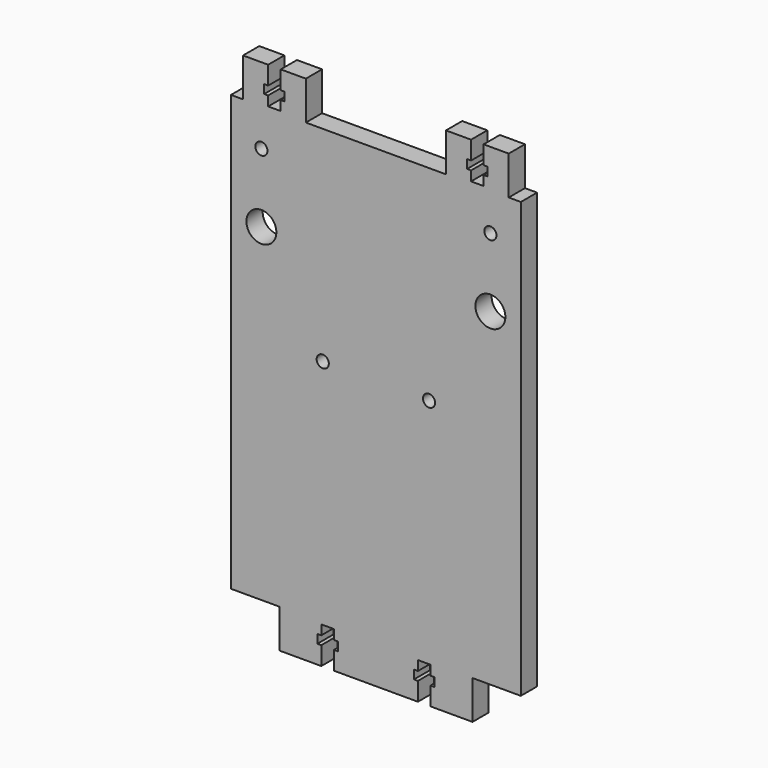
from build123d import *

# Parameters (mm, degrees)
F0_W      = 76.2
F0_H      = 134.62
F1_DEPTH  = 5.334
F2_W      = 12.7
F2_H      = 10.16
F3_DEPTH  = 25.4
F4_W      = 3.302
F4_H      = 4.826
F4_H_2    = 2.286
F4_W_2    = 1.0414
F4_H_3    = 2.54
F5_DEPTH  = 25.4
F6_W      = 3.175
F6_H      = 10.16
F6_W_2    = 36.83
F7_DEPTH  = 25.4
F8_W      = 3.302
F8_H      = 4.826
F8_H_2    = 2.286
F8_H_3    = 2.54
F8_W_2    = 1.0414
F9_DEPTH  = 25.4
F10_R     = 1.6
F10_R_2   = 3.935
F11_DEPTH = 25.4


with BuildPart() as f1:
    # F0 (on Front) → F1 (new body)
    with BuildSketch(Plane.XZ):
        with Locations((11.8567193806, 14.6954228854)):
            Rectangle(F0_W, F0_H)
    extrude(amount=F1_DEPTH)

    # F2 (on face) → F3 (cut)
    with BuildSketch(Plane.XZ.offset(5.334)):
        with Locations((-19.8932806194, -47.5345771146)):
            Rectangle(F2_W, F2_H)
        with Locations((43.6067193806, -47.5345771146)):
            Rectangle(F2_W, F2_H)
    extrude(amount=-F3_DEPTH, mode=Mode.SUBTRACT)

    # F4 (on face) → F5 (cut)
    with BuildSketch(Plane.XZ.offset(5.334)):
        with Locations((-0.8432806194, -50.2015771146)):
            Rectangle(F4_W, F4_H)
        with Locations((-0.8432806194, -46.6455771146)):
            Rectangle(F4_W, F4_H_2)
        with Locations((-3.0149806194, -46.6455771146)):
            Rectangle(F4_W_2, F4_H_2)
        with Locations((-0.8432806194, -44.2325771146)):
            Rectangle(F4_W, F4_H_3)
        with Locations((1.3284193806, -46.6455771146)):
            Rectangle(F4_W_2, F4_H_2)
        with Locations((24.5567193806, -50.2015771146)):
            Rectangle(F4_W, F4_H)
        with Locations((24.5567193806, -46.6455771146)):
            Rectangle(F4_W, F4_H_2)
        with Locations((22.3850193806, -46.6455771146)):
            Rectangle(F4_W_2, F4_H_2)
        with Locations((26.7284193806, -46.6455771146)):
            Rectangle(F4_W_2, F4_H_2)
        with Locations((24.5567193806, -44.2325771146)):
            Rectangle(F4_W, F4_H_3)
    extrude(amount=-F5_DEPTH, mode=Mode.SUBTRACT)

    # F6 (on face) → F7 (cut)
    with BuildSketch(Plane.XZ.offset(5.334)):
        with Locations((-24.6557806194, 76.9254228854)):
            Rectangle(F6_W, F6_H)
        with Locations((11.8567193806, 76.9254228854)):
            Rectangle(F6_W_2, F6_H)
        with Locations((48.3692193806, 76.9254228854)):
            Rectangle(F6_W, F6_H)
    extrude(amount=-F7_DEPTH, mode=Mode.SUBTRACT)

    # F8 (on face) → F9 (cut)
    with BuildSketch(Plane.XZ.offset(5.334)):
        with Locations((-14.8132806194, 79.5924228854)):
            Rectangle(F8_W, F8_H)
        with Locations((-14.8132806194, 76.0364228854)):
            Rectangle(F8_W, F8_H_2)
        with Locations((-14.8132806194, 73.6234228854)):
            Rectangle(F8_W, F8_H_3)
        with Locations((-16.9849806194, 76.0364228854)):
            Rectangle(F8_W_2, F8_H_2)
        with Locations((-12.6415806194, 76.0364228854)):
            Rectangle(F8_W_2, F8_H_2)
        with Locations((38.5267193806, 73.6234228854)):
            Rectangle(F8_W, F8_H_3)
        with Locations((38.5267193806, 76.0364228854)):
            Rectangle(F8_W, F8_H_2)
        with Locations((36.3550193806, 76.0364228854)):
            Rectangle(F8_W_2, F8_H_2)
        with Locations((40.6984193806, 76.0364228854)):
            Rectangle(F8_W_2, F8_H_2)
        with Locations((38.5267193806, 79.5924228854)):
            Rectangle(F8_W, F8_H)
    extrude(amount=-F9_DEPTH, mode=Mode.SUBTRACT)

    # F10 (on face) → F11 (cut)
    with BuildSketch(Plane.XZ.offset(5.334)):
        with Locations((-18.2432806194, 62.0054228854)):
            Circle(F10_R)
        with Locations((41.9567193806, 62.0054228854)):
            Circle(F10_R)
        with Locations((-18.2432806194, 43.9054228854)):
            Circle(F10_R_2)
        with Locations((41.9567193806, 43.9054228854)):
            Circle(F10_R_2)
        with Locations((-2.1132806194, 18.0054228854)):
            Circle(F10_R)
        with Locations((25.8267193806, 18.0054228854)):
            Circle(F10_R)
    extrude(amount=-F11_DEPTH, mode=Mode.SUBTRACT)


solid = f1.part
